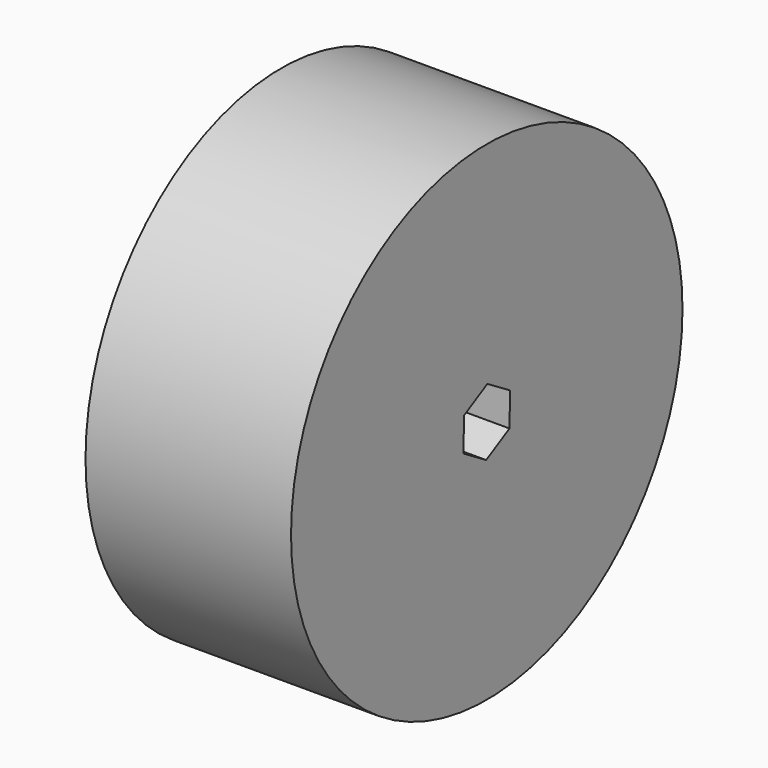
from build123d import *

# Parameters (mm, degrees)
F0_R     = 53.975
F1_DEPTH = 45.339


with BuildPart() as f1:
    # F0 (on Right) → F1 (new body)
    with BuildSketch(Plane.YZ):
        Circle(F0_R)
        Polygon((-6.264749, 3.81002), (0.1672, 7.330442), (6.431949, 3.520422), (6.264749, -3.81002), (-0.1672, -7.330442), (-6.431949, -3.520422), align=None, mode=Mode.SUBTRACT)
    extrude(amount=F1_DEPTH)


solid = f1.part
